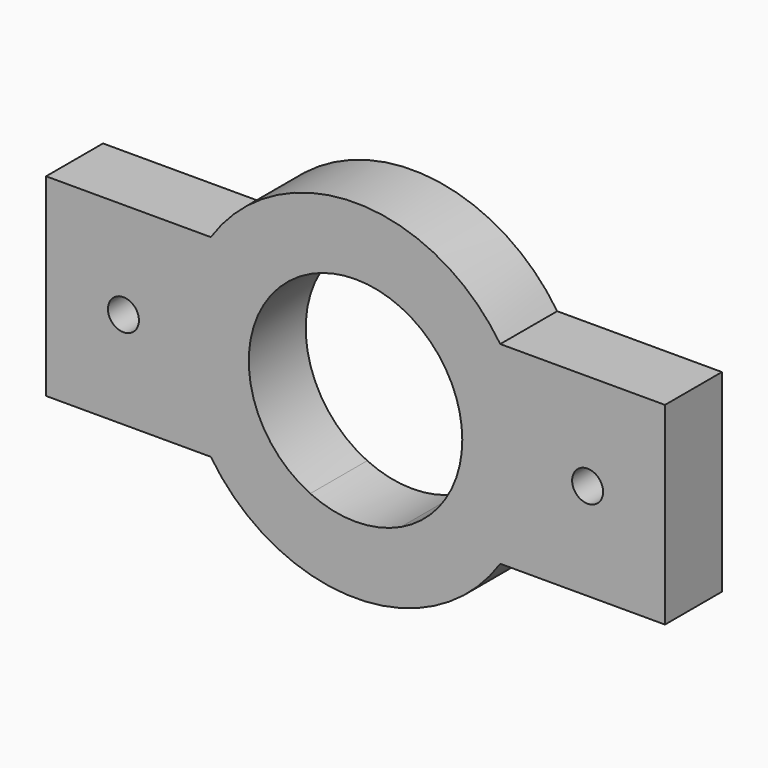
from build123d import *

# Parameters (mm, degrees)
F0_R     = 2.54
F1_DEPTH = 11.684


with BuildPart() as f1:
    # F0 (on Front) → F1 (new body)
    with BuildSketch(Plane.XZ):
        with BuildLine():
            ThreePointArc((-7.4259713843, 15.875), (0, 17.526), (7.4259713843, 15.875))
            Line((7.4259713843, 15.875), (23.759524406, 15.875))
            ThreePointArc((23.759524406, 15.875), (0, 28.575), (-23.759524406, 15.875))
            Line((-23.759524406, 15.875), (-7.4259713843, 15.875))
        make_face()
        with BuildLine():
            Line((23.759524406, -15.875), (7.4259713843, -15.875))
            ThreePointArc((7.4259713843, -15.875), (0, -17.526), (-7.4259713843, -15.875))
            Line((-7.4259713843, -15.875), (-23.759524406, -15.875))
            ThreePointArc((-23.759524406, -15.875), (0, -28.575), (23.759524406, -15.875))
        make_face()
        with BuildLine():
            ThreePointArc((-7.4259713843, -15.875), (-17.526, 0), (-7.4259713843, 15.875))
            Line((-7.4259713843, 15.875), (-23.759524406, 15.875))
            ThreePointArc((-23.759524406, 15.875), (-28.575, 0), (-23.759524406, -15.875))
            Line((-23.759524406, -15.875), (-7.4259713843, -15.875))
        make_face()
        with BuildLine():
            ThreePointArc((7.4259713843, 15.875), (14.7869579441, 9.4077920236), (17.526, 0))
            ThreePointArc((17.526, 0), (14.7869579441, -9.4077920236), (7.4259713843, -15.875))
            Line((7.4259713843, -15.875), (23.759524406, -15.875))
            ThreePointArc((23.759524406, -15.875), (27.3446433045, -8.2946433045), (28.575, 0))
            ThreePointArc((28.575, 0), (27.3446433045, 8.2946433045), (23.759524406, 15.875))
            Line((23.759524406, 15.875), (7.4259713843, 15.875))
        make_face()
        with BuildLine():
            Line((50.8, 15.875), (23.759524406, 15.875))
            ThreePointArc((23.759524406, 15.875), (27.3446433045, 8.2946433045), (28.575, 0))
            ThreePointArc((28.575, 0), (27.3446433045, -8.2946433045), (23.759524406, -15.875))
            Line((23.759524406, -15.875), (50.8, -15.875))
            Line((50.8, -15.875), (50.8, 15.875))
        make_face()
        with Locations((38.1, 0)):
            Circle(F0_R, mode=Mode.SUBTRACT)
        with BuildLine():
            ThreePointArc((-23.759524406, -15.875), (-28.575, 0), (-23.759524406, 15.875))
            Line((-23.759524406, 15.875), (-50.8, 15.875))
            Line((-50.8, 15.875), (-50.8, -15.875))
            Line((-50.8, -15.875), (-23.759524406, -15.875))
        make_face()
        with Locations((-38.1, 0)):
            Circle(F0_R, mode=Mode.SUBTRACT)
    extrude(amount=F1_DEPTH)


solid = f1.part
